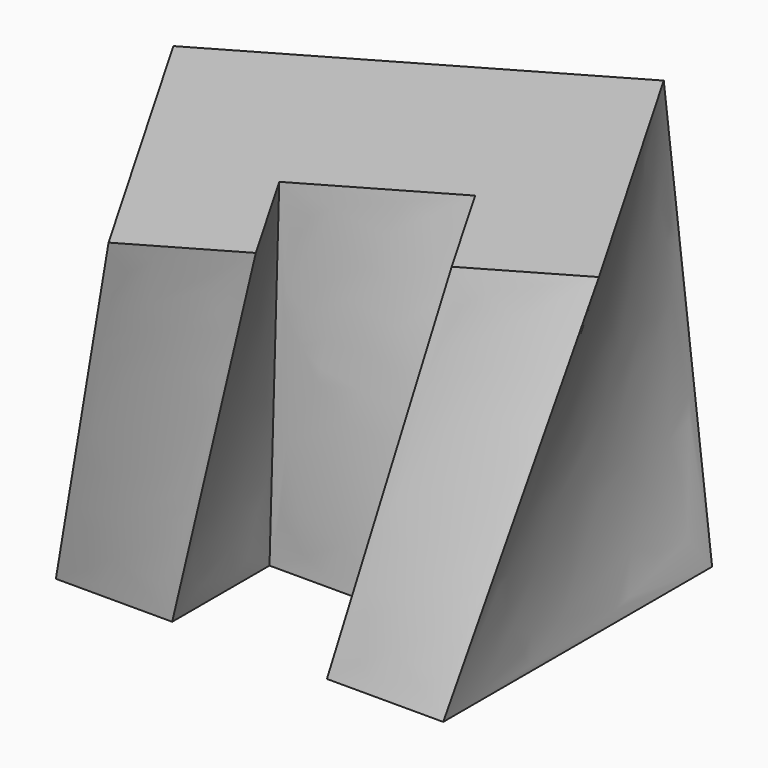
from build123d import *


with BuildPart() as f3:
    # F0 (on Top) → F3 section 0
    with BuildSketch(Plane.XY):
        Polygon((49.057379, 39.159838), (-55.081967, 39.159838), (-55.081967, -51.209018), (-23.811476, -51.209018), (-23.811476, -18.504098), (17.786887, -18.504098), (17.786887, -51.209018), (49.057379, -51.209018), align=None)
    # F2 (on offset) → F3 section 1
    with BuildSketch(Plane.XY.offset(100)):
        Polygon((23.056918, 55.403994), (-67.130402, 3.33432), (-21.945974, -74.927405), (5.135066, -59.292159), (-11.217394, -30.968868), (24.807845, -10.169686), (41.160305, -38.492978), (68.241346, -22.857731), align=None)
    loft()


solid = f3.part
